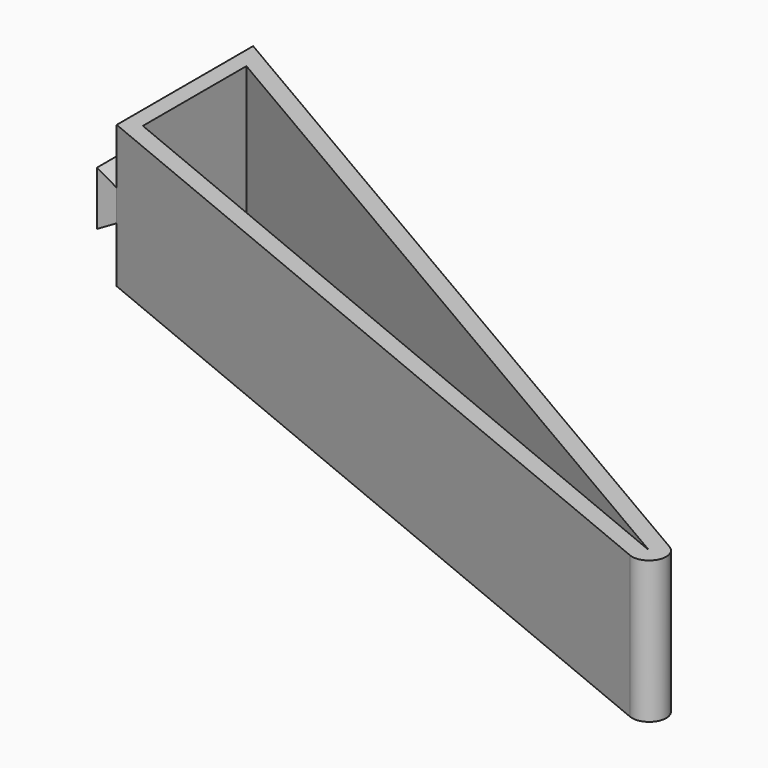
from build123d import *

# Parameters (mm, degrees)
F1_DEPTH = 25
F3_DEPTH = 28


with BuildPart() as f1:
    # F0 (on Top) → F1 (new body)
    with BuildSketch(Plane.XY):
        with BuildLine():
            Line((0, 30), (0, 0))
            Line((0, 0), (135.051266, -55.940066))
            ThreePointArc((135.051266, -55.940066), (138.886071, -54.503098), (137.714375, -50.579104))
            Line((137.714375, -50.579104), (0, 30))
        make_face()
        Polygon((3, 2.004536), (3, 24.768836), (136.199316, -53.168427), align=None, mode=Mode.SUBTRACT)
    extrude(amount=F1_DEPTH)

    # F2 (on Front) → F3 (join)
    with BuildSketch(Plane.XZ):
        Polygon((0, 9.75), (0, 15.25), (-3.464102, 17.25), (-3.464102, 7.75), align=None)
    extrude(amount=-F3_DEPTH)


solid = f1.part
